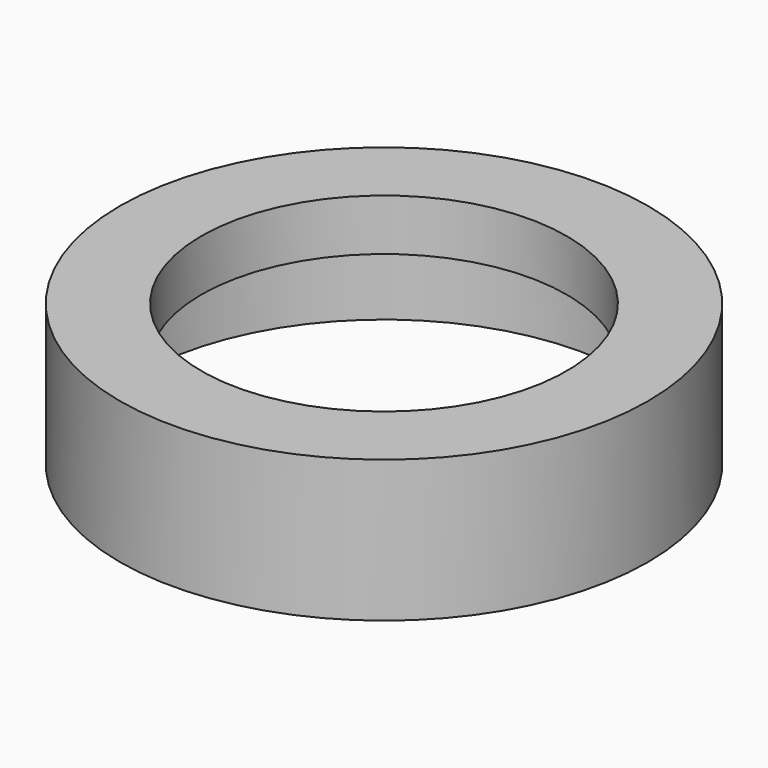
from build123d import *

# Parameters (mm, degrees)
F0_R           = 65.0875
F1_DEPTH       = 34.925
F3_D           = 90.043
F3_DEPTH       = 34.925
F3_CBORE_D     = 120.8024
F3_CBORE_DEPTH = 22.225


with BuildPart() as f1:
    # F0 (on Top) → F1 (new body)
    with BuildSketch(Plane.XY):
        Circle(F0_R)
    extrude(amount=-F1_DEPTH)

    # F3
    with Locations(Plane(origin=(0, 0, -34.925), x_dir=(1, 0, 0), z_dir=(0, 0, -1))):
        with Locations((0, 0)):
            CounterBoreHole(F3_D / 2, F3_CBORE_D / 2, F3_CBORE_DEPTH, depth=F3_DEPTH)


solid = f1.part
